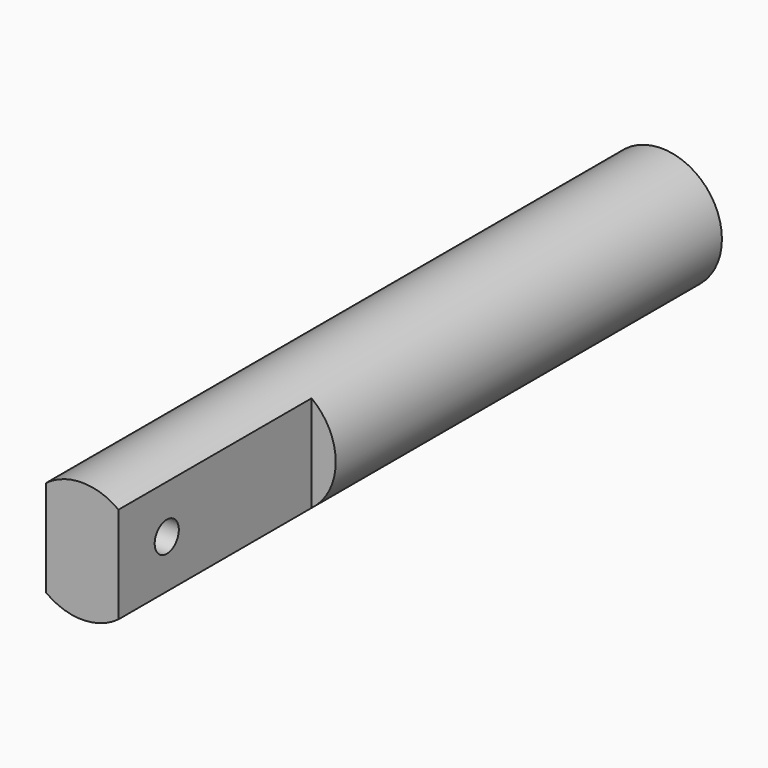
from build123d import *

# Parameters (mm, degrees)
F0_R     = 6.35
F1_DEPTH = 76.2
F3_DEPTH = 25.4
F4_R     = 1.5875
F5_DEPTH = 25.4


with BuildPart() as f1:
    # F0 (on Front) → F1 (new body)
    with BuildSketch(Plane.XZ):
        Circle(F0_R)
    extrude(amount=F1_DEPTH)

    # F2 (on face) → F3 (cut)
    with BuildSketch(Plane.XZ.offset(76.2)):
        with BuildLine():
            ThreePointArc((3.81, -5.08), (6.35, 0), (3.81, 5.08))
            Line((3.81, 5.08), (3.81, -5.08))
        make_face()
        with BuildLine():
            Line((-3.81, -5.08), (-3.81, 5.08))
            ThreePointArc((-3.81, 5.08), (-6.35, 0), (-3.81, -5.08))
        make_face()
    extrude(amount=-F3_DEPTH, mode=Mode.SUBTRACT)

    # F4 (on face) → F5 (cut)
    with BuildSketch(Plane.YZ.offset(3.81)):
        with Locations((-69.85, 0)):
            Circle(F4_R)
    extrude(amount=-F5_DEPTH, mode=Mode.SUBTRACT)


solid = f1.part
